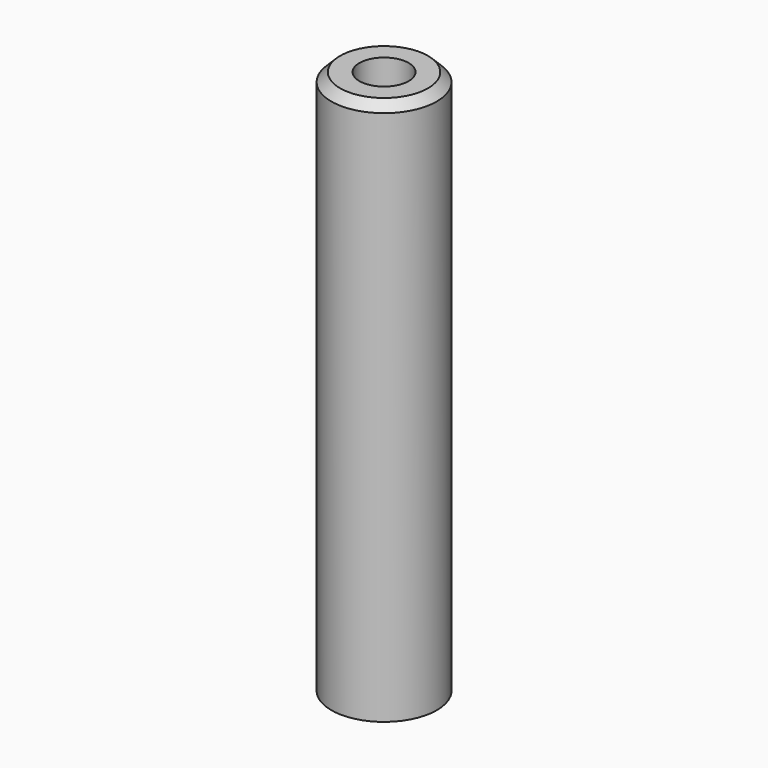
from build123d import *

# Parameters (mm, degrees)
F0_R     = 3
F0_R_2   = 1.4
F1_DEPTH = 31
F2_SIZE  = 0.5


with BuildPart() as f1:
    # F0 (on Top) → F1 (new body)
    with BuildSketch(Plane.XY):
        with Locations((-49.937524, -23.854118)):
            Circle(F0_R)
        with Locations((-49.937524, -23.854118)):
            Circle(F0_R_2, mode=Mode.SUBTRACT)
    extrude(amount=F1_DEPTH)

    # F2
    f2_edges = [f1.edges().sort_by_distance(p)[0] for p in [
        (-52.937524, -23.854118, 31),
    ]]
    chamfer(f2_edges, length=F2_SIZE)


solid = f1.part
